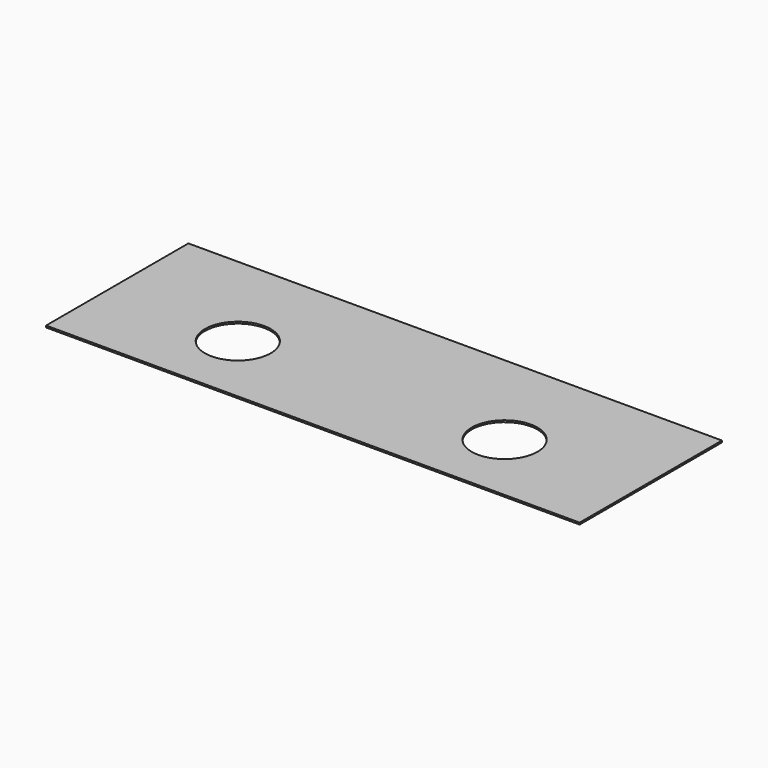
from build123d import *

# Parameters (mm, degrees)
F0_W     = 1500
F0_H     = 500
F1_DEPTH = 5
F3_D     = 185


with BuildPart() as f1:
    # F0 (on Top) → F1 (new body)
    with BuildSketch(Plane.XY):
        with Locations((-63.826396, -76.986836)):
            Rectangle(F0_W, F0_H)
    extrude(amount=F1_DEPTH)

    # F3 (through all)
    with Locations(Plane.XY.offset(5)):
        with Locations((-438.826396, -121.986836), (311.173604, -121.986836)):
            Hole(F3_D / 2)


solid = f1.part
